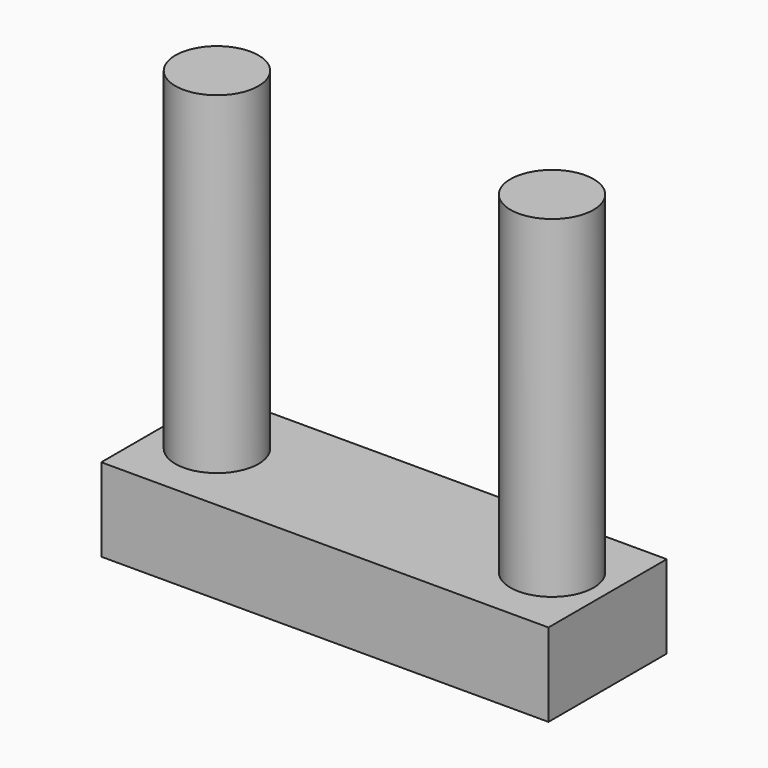
from build123d import *

# Parameters (mm, degrees)
F0_W     = 20.48848
F0_H     = 6.773198
F0_R     = 1.905
F1_DEPTH = 3.81
F2_DEPTH = 19.05


with BuildPart() as f1:
    # F0 (on Top) → F1 (new body)
    with BuildSketch(Plane.XY):
        Rectangle(F0_W, F0_H)
        with Locations((-7.675876, 0.028453)):
            Circle(F0_R, mode=Mode.SUBTRACT)
        with Locations((7.675876, 0.028453)):
            Circle(F0_R, mode=Mode.SUBTRACT)
    extrude(amount=F1_DEPTH)

    # F0 (on Top) → F2 (join)
    with BuildSketch(Plane.XY):
        with Locations((-7.675876, 0.028453)):
            Circle(F0_R)
        with Locations((7.675876, 0.028453)):
            Circle(F0_R)
    extrude(amount=F2_DEPTH)


solid = f1.part
